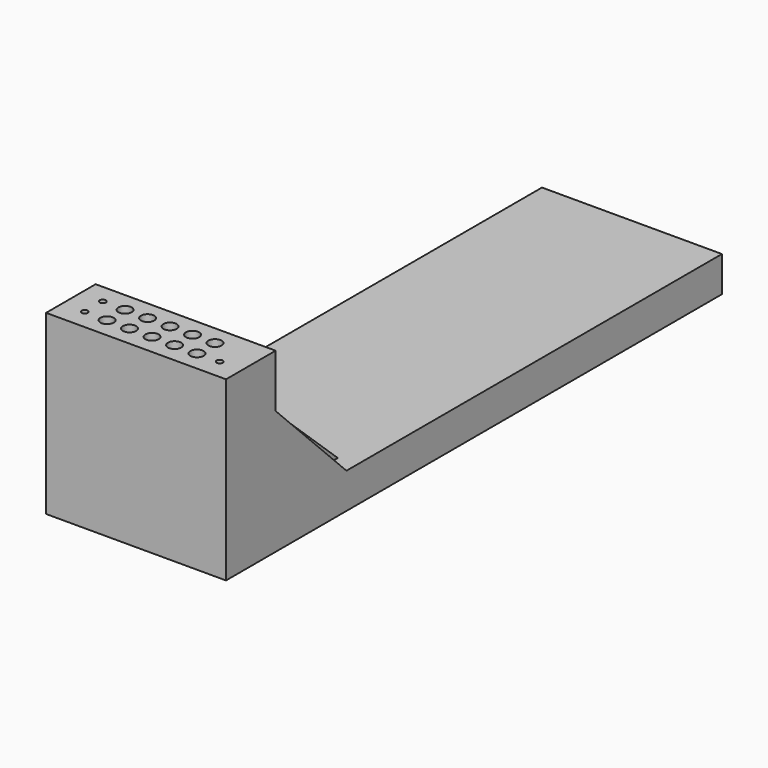
from build123d import *

# Parameters (mm, degrees)
PAD_DEPTH    = 5
PAD001_DEPTH = 5
BOX002_W     = 20.32
BOX002_H     = 63
BOX002_DEPTH = 4
BOX_W        = 20.32
BOX_H        = 7
BOX_DEPTH    = 20
SKETCH_R     = 0.75
SKETCH_R_2   = 0.35
POCKET_DEPTH = 20
CHAMFER_SIZE = 10


with BuildPart() as pad:
    # Sketch001 → Pad (new body)
    with BuildSketch(Plane.YZ.offset(-1)):
        Polygon((6.961547, 14.529416), (6.961547, 11.537694), (14.666037, 4), (18.422146, 4), align=None)
    extrude(amount=PAD_DEPTH)


with BuildPart() as pad001:
    # Sketch002 → Pad001 (new body)
    with BuildSketch(Plane.YZ.offset(10)):
        Polygon((6.961547, 14.529416), (6.961547, 11.537694), (14.666037, 4), (18.422146, 4), align=None)
    extrude(amount=PAD001_DEPTH)


with BuildPart() as cube002:
    # Box002 → Box002 (new body)
    with BuildSketch(Plane(origin=(-3.2, 7, 0), x_dir=(1, 0, 0), z_dir=(0, 0, 1))):
        with Locations((10.16, 31.5)):
            Rectangle(BOX002_W, BOX002_H)
    extrude(amount=BOX002_DEPTH)


with BuildPart() as chamfer_body:
    # Box → Box (new body)
    with BuildSketch(Plane(origin=(-3.2, 0, 0), x_dir=(1, 0, 0), z_dir=(0, 0, 1))):
        with Locations((10.16, 3.5)):
            Rectangle(BOX_W, BOX_H)
    extrude(amount=BOX_DEPTH)

    # Sketch → Pocket (cut)
    with BuildSketch(Plane(origin=(-3.2, 0, 20), x_dir=(1, 0, 0), z_dir=(0, 0, 1))):
        with Locations((5.08, 2.26)):
            Circle(SKETCH_R)
        with Locations((7.62, 2.26)):
            Circle(SKETCH_R)
        with Locations((10.16, 2.26)):
            Circle(SKETCH_R)
        with Locations((12.7, 2.26)):
            Circle(SKETCH_R)
        with Locations((15.24, 2.26)):
            Circle(SKETCH_R)
        with Locations((5.08, 4.8)):
            Circle(SKETCH_R)
        with Locations((7.62, 4.8)):
            Circle(SKETCH_R)
        with Locations((10.16, 4.8)):
            Circle(SKETCH_R)
        with Locations((12.7, 4.8)):
            Circle(SKETCH_R)
        with Locations((15.24, 4.8)):
            Circle(SKETCH_R)
        with Locations((2.54, 2.286478)):
            Circle(SKETCH_R_2)
        with Locations((2.54, 4.826478)):
            Circle(SKETCH_R_2)
        with Locations((17.78, 2.286478)):
            Circle(SKETCH_R_2)
    extrude(amount=-POCKET_DEPTH, mode=Mode.SUBTRACT)

    # Fusion: union Cube002
    add(cube002.part)

    # Chamfer
    chamfer_edges = [chamfer_body.edges().sort_by_distance(p)[0] for p in [
        (6.96, 7, 4),
    ]]
    chamfer(chamfer_edges, length=CHAMFER_SIZE)


solid = Compound([pad.part, pad001.part, chamfer_body.part])
